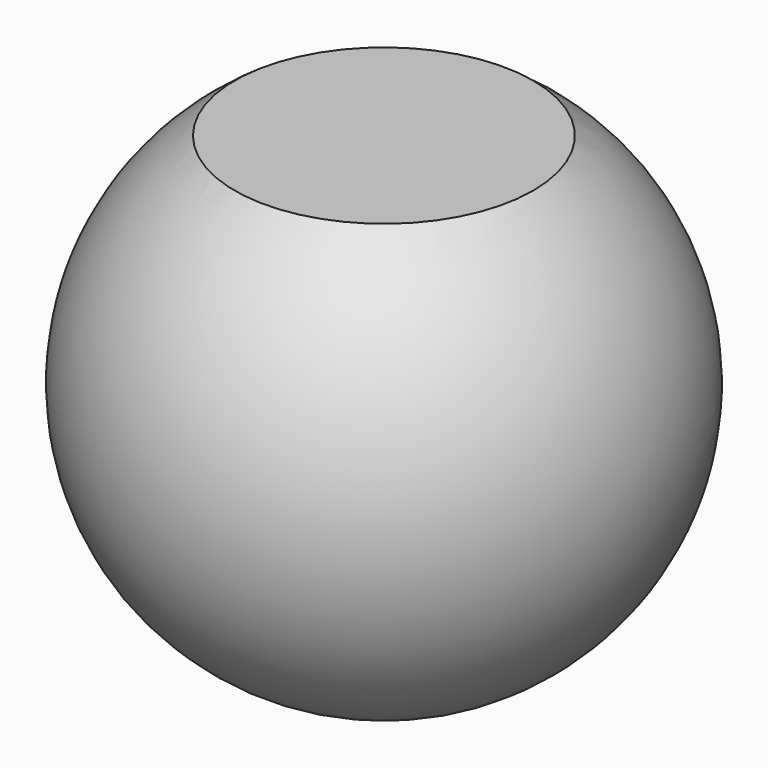
from build123d import *

# Parameters (mm, degrees)
F3_R     = 22.6053091109
F4_DEPTH = 7


with BuildPart() as f1:
    # F0 (on Top) → F1 (revolve)
    with BuildSketch(Plane.XY):
        with BuildLine():
            Line((-40, 0), (40, 0))
            ThreePointArc((40, 0), (0, 40), (-40, 0))
        make_face()
    revolve(axis=Axis((-25, 0, 0), (-1, 0, 0)))

    # F3 (on offset) → F4 (cut, through all)
    with BuildSketch(Plane.XY.offset(33)):
        Circle(F3_R)
    extrude(amount=F4_DEPTH, mode=Mode.SUBTRACT)


solid = f1.part
